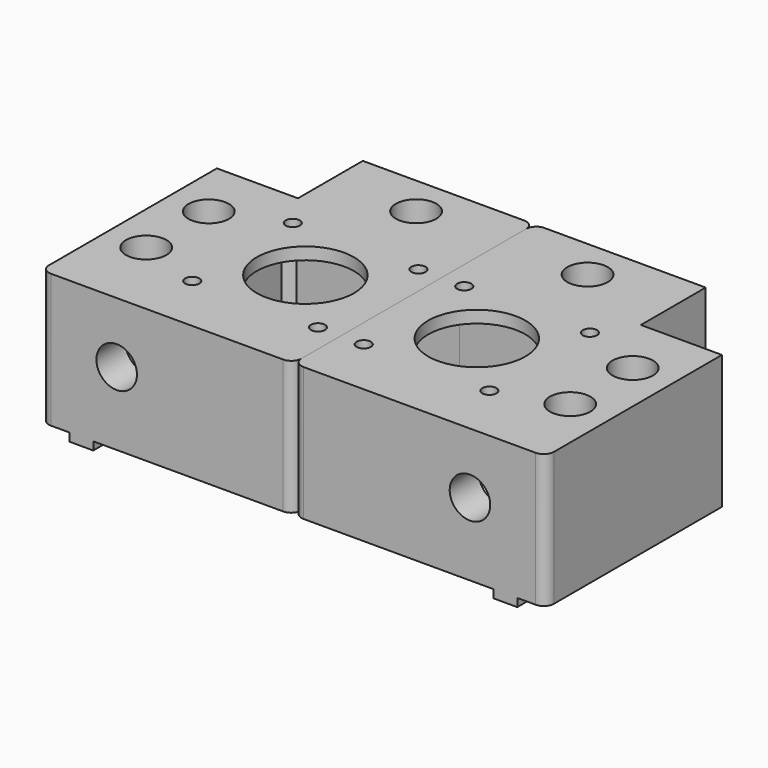
from build123d import *

# Parameters (mm, degrees)
F0_R      = 2.65
F0_R_2    = 12
F1_DEPTH  = 33
F2_R      = 5
F3_DEPTH  = 9
F4_W      = 42.3
F4_H      = 42.3
F5_DEPTH  = 30
F6_SIZE   = 2
F7_R      = 2.5
F8_R      = 5
F9_DEPTH  = 29
F10_W     = 5.9
F10_H     = 54.3
F10_R     = 2.65
F10_W_2   = 42.3
F10_H_2   = 5.9
F11_DEPTH = 2
F12_R     = 1.75
F13_DEPTH = 35.001


with BuildPart() as f1:
    # F0 (on Top) → F1 (new body)
    with BuildSketch(Plane.XY):
        Polygon((21.15, 44.15), (-21.15, 44.15), (-21.15, 24.15), (-41.15, 24.15), (-41.15, -30.15), (21.15, -30.15), align=None)
        with Locations((-31.15, -10.15)):
            Circle(F0_R, mode=Mode.SUBTRACT)
        Circle(F0_R_2, mode=Mode.SUBTRACT)
        with Locations((-31.15, 9.15)):
            Circle(F0_R, mode=Mode.SUBTRACT)
        with Locations((0, 34.15)):
            Circle(F0_R, mode=Mode.SUBTRACT)
    extrude(amount=F1_DEPTH)

    # F2 (on face) → F3 (cut)
    with BuildSketch(Plane.XZ.offset(30.15)):
        with Locations((-22.425, 18)):
            Circle(F2_R)
    extrude(amount=-F3_DEPTH, mode=Mode.SUBTRACT)

    # F4 (on face) → F5 (cut)
    with BuildSketch(Plane.XY):
        Rectangle(F4_W, F4_H)
    extrude(amount=F5_DEPTH, mode=Mode.SUBTRACT)

    # F6
    f6_edges = [f1.edges().sort_by_distance(p)[0] for p in [
        (-21.15, 21.15, 15),
    ]]
    chamfer(f6_edges, length=F6_SIZE)

    # F7
    f7_edges = [f1.edges().sort_by_distance(p)[0] for p in [
        (-41.15, -30.15, 16.5),
        (21.15, -30.15, 16.5),
        (21.15, 44.15, 16.5),
    ]]
    fillet(f7_edges, radius=F7_R)

    # F8 (on face) → F9 (cut)
    with BuildSketch(Plane.XY.offset(33)):
        with Locations((0, 34.15)):
            Circle(F8_R)
        with Locations((-31.15, 9.15)):
            Circle(F8_R)
        with Locations((-31.15, -10.15)):
            Circle(F8_R)
    extrude(amount=-F9_DEPTH, mode=Mode.SUBTRACT)

    # F10 (on face) → F11 (join)
    with BuildSketch(Plane.XY):
        with Locations((-31.15, -3)):
            Rectangle(F10_W, F10_H)
        with Locations((-31.15, -10.15)):
            Circle(F10_R, mode=Mode.SUBTRACT)
        with Locations((-31.15, 9.15)):
            Circle(F10_R, mode=Mode.SUBTRACT)
        with Locations((0, 34.15)):
            Rectangle(F10_W_2, F10_H_2)
        with Locations((0, 34.15)):
            Circle(F10_R, mode=Mode.SUBTRACT)
    extrude(amount=-F11_DEPTH)

    # F12 (on face) → F13 (cut, through all)
    with BuildSketch(Plane.XY.offset(33)):
        with Locations((15.5, 15.5)):
            Circle(F12_R)
        with Locations((15.5, -15.5)):
            Circle(F12_R)
        with Locations((-15.5, -15.5)):
            Circle(F12_R)
        with Locations((-15.5, 15.5)):
            Circle(F12_R)
    extrude(amount=-F13_DEPTH, mode=Mode.SUBTRACT)


with BuildPart() as f14_1:
    # F14: instance of F1
    add(f1.part.mirror(Plane(origin=(21.15, 15.937914, 18.148053), x_dir=(0, 1, 0), z_dir=(1, 0, 0))))


solid = Compound([f1.part, f14_1.part])
